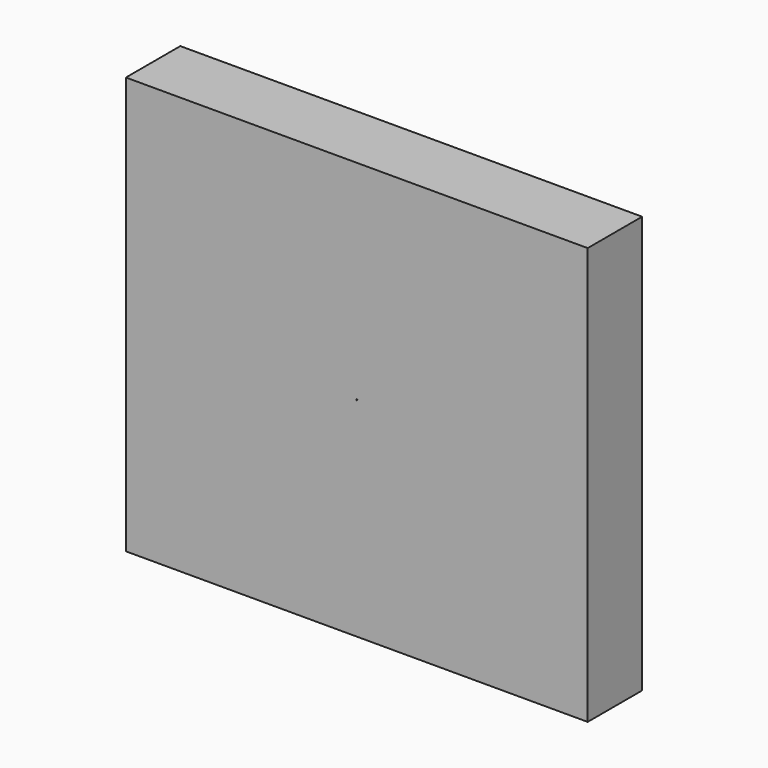
from build123d import *

# Parameters (mm, degrees)
F0_W           = 46.5
F0_H           = 42
F0_W_2         = 36.5
F0_H_2         = 36.5
F1_DEPTH       = 6.85
F2_DEPTH       = 1.66
F4_D           = 0.1
F4_CSINK_D     = 0.5
F4_CSINK_ANGLE = 90


with BuildPart() as f1:
    # F0 (on Front) → F1 (new body)
    with BuildSketch(Plane.XZ):
        with Locations((-23.25, 21)):
            Rectangle(F0_W, F0_H)
        with Locations((-23.25, 21)):
            Rectangle(F0_W_2, F0_H_2, mode=Mode.SUBTRACT)
        with Locations((-23.25, 21)):
            Rectangle(F0_W_2, F0_H_2)
    extrude(amount=F1_DEPTH)

    # F0 (on Front) → F2 (cut)
    with BuildSketch(Plane.XZ):
        with Locations((-23.25, 21)):
            Rectangle(F0_W_2, F0_H_2)
    extrude(amount=F2_DEPTH, mode=Mode.SUBTRACT)

    # F4 (through all)
    with Locations(Plane(origin=(0, -1.66, 0), x_dir=(-1, 0, 0), z_dir=(0, 1, 0))):
        with Locations((23.25, 21)):
            CounterSinkHole(F4_D / 2, F4_CSINK_D / 2, counter_sink_angle=F4_CSINK_ANGLE)


solid = f1.part
